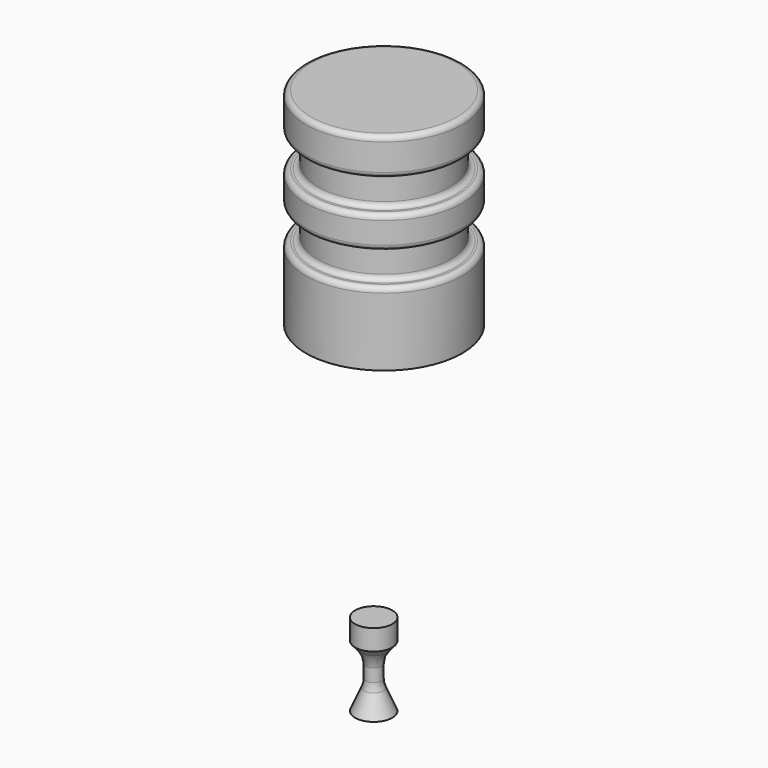
from build123d import *

# Parameters (mm, degrees)
F4_R = 2.54


with BuildPart() as f1:
    # F0 (on Front) → F1 (revolve)
    with BuildSketch(Plane.XZ):
        with BuildLine():
            Line((0, 25.4), (0, 0))
            Line((0, 0), (9.6267571212, 0))
            Line((9.6267571212, 0), (9.6267571212, 8.382))
            ThreePointArc((9.6267571212, 8.382), (9.4407699273, 8.8310128061), (8.9917571212, 9.017))
            Line((8.9917571212, 9.017), (8.7377571212, 9.017))
            ThreePointArc((8.7377571212, 9.017), (8.2887443152, 9.2029871939), (8.1027571212, 9.652))
            Line((8.1027571212, 9.652), (8.1027571212, 12.319))
            ThreePointArc((8.1027571212, 12.319), (8.2887443152, 12.7680128061), (8.7377571212, 12.954))
            Line((8.7377571212, 12.954), (8.9917571212, 12.954))
            ThreePointArc((8.9917571212, 12.954), (9.4407699273, 13.1399871939), (9.6267571212, 13.589))
            Line((9.6267571212, 13.589), (9.6267571212, 16.256))
            ThreePointArc((9.6267571212, 16.256), (9.4407699273, 16.7050128061), (8.9917571212, 16.891))
            Line((8.9917571212, 16.891), (8.7377571212, 16.891))
            ThreePointArc((8.7377571212, 16.891), (8.2887443152, 17.0769871939), (8.1027571212, 17.526))
            Line((8.1027571212, 17.526), (8.1027571212, 20.193))
            ThreePointArc((8.1027571212, 20.193), (8.2887443152, 20.6420128061), (8.7377571212, 20.828))
            Line((8.7377571212, 20.828), (8.9917571212, 20.828))
            ThreePointArc((8.9917571212, 20.828), (9.4407699273, 21.0139871939), (9.6267571212, 21.463))
            Line((9.6267571212, 21.463), (9.6267571212, 24.765))
            ThreePointArc((9.6267571212, 24.765), (9.4407699273, 25.2140128061), (8.9917571212, 25.4))
            Line((8.9917571212, 25.4), (0, 25.4))
        make_face()
    revolve(axis=Axis((0, 0, 12.7), (0, 0, 1)))


with BuildPart() as f3:
    # F2 (on Front) → F3 (revolve)
    with BuildSketch(Plane.XZ):
        Polygon((1.0073014796, -32.1407181683), (-1.2786985204, -32.1407181683), (-1.2786985204, -42.3007181683), (1.0073014796, -42.3007181683), (-0.3123514946, -39.273884835), (-0.3123514946, -36.225884835), (1.0073014796, -34.6807181683), align=None)
    revolve(axis=Axis((-1.2786985204, 0, -37.2207181683), (0, 0, 1)))

    # F4
    f4_edges = [f3.edges().sort_by_distance(p)[0] for p in [
        (-2.245046, 0, -39.273885),
        (-2.245046, 0, -36.225885),
        (-0.312351, 0, -37.749885),
    ]]
    fillet(f4_edges, radius=F4_R)


solid = Compound([f1.part, f3.part])
